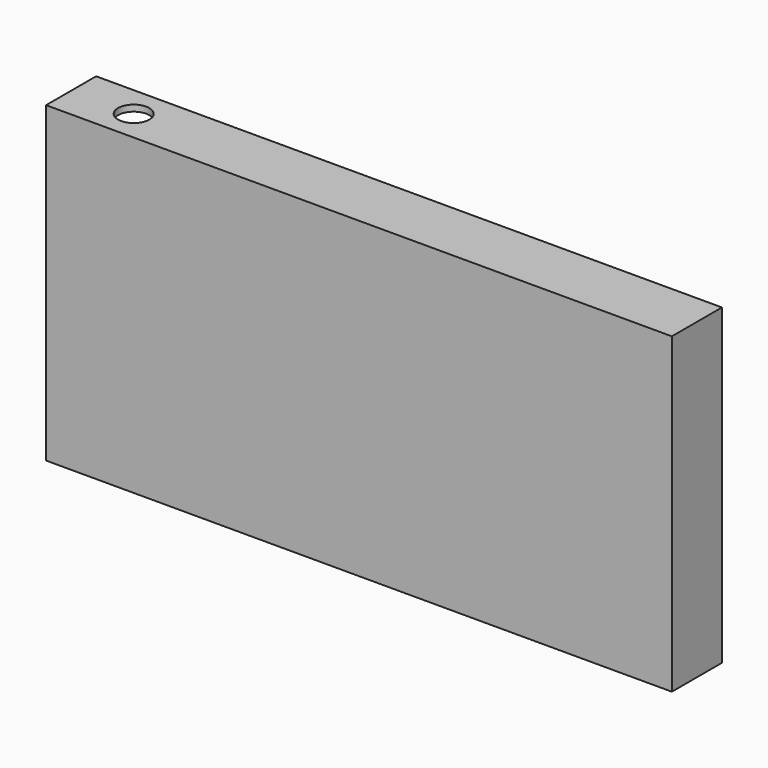
from build123d import *

# Parameters (mm, degrees)
F0_W     = 1.27
F0_H     = 1.27
F0_W_2   = 124.46
F0_H_2   = 11.43
F0_R     = 3.175
F1_DEPTH = 31.75
F2_DEPTH = 30.48


with BuildPart() as f1:
    # F0 (on Top) → F1 (new body, symmetric)
    with BuildSketch(Plane.XY):
        with Locations((62.865, -5.715)):
            Rectangle(F0_W, F0_H)
        with Locations((0, -5.715)):
            Rectangle(F0_W_2, F0_H)
        with Locations((62.865, 0.635)):
            Rectangle(F0_W, F0_H_2)
        Polygon((-63.5, -6.35), (-62.23, -6.35), (-62.23, -5.08), (-62.23, 6.35), (-63.5, 6.35), align=None)
        with Locations((0, 0.635)):
            Rectangle(F0_W_2, F0_H_2)
        with Locations((-50.8, 0)):
            Circle(F0_R, mode=Mode.SUBTRACT)
    extrude(amount=F1_DEPTH, both=True)

    # F0 (on Top) → F2 (cut, symmetric)
    with BuildSketch(Plane.XY):
        with Locations((0, 0.635)):
            Rectangle(F0_W_2, F0_H_2)
        with Locations((-50.8, 0)):
            Circle(F0_R, mode=Mode.SUBTRACT)
    extrude(amount=F2_DEPTH, both=True, mode=Mode.SUBTRACT)


solid = f1.part
